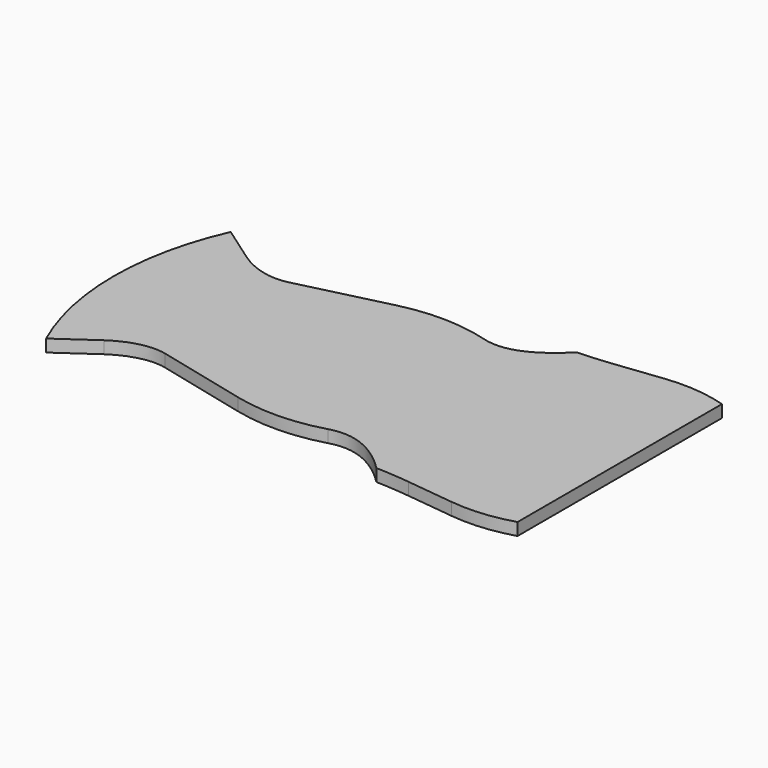
from build123d import *

# Parameters (mm, degrees)
F1_DEPTH = 20


with BuildPart() as f1:
    # F0 (on Top) → F1 (new body)
    with BuildSketch(Plane.XY):
        with BuildLine():
            ThreePointArc((40, 187), (10.111843, 95.615114), (0, 0))
            Line((0, 0), (100, 0))
            Line((100, 0), (100, 145))
            Line((100, 145), (40, 187))
        make_face()
        with BuildLine():
            Line((100, 0), (0, 0))
            ThreePointArc((0, 0), (10.111843, -95.615114), (40, -187))
            Line((40, -187), (100, -145))
            Line((100, -145), (100, 0))
        make_face()
        with BuildLine():
            Line((100, 145), (100, 0))
            Line((100, 0), (183, 0))
            Line((183, 0), (183, 125))
            add(Edge.make_bspline(
                [(100, 145), (123.31415, 128.680095), (155.358294, 118.230603), (183, 125)],
                knots=[0, 0, 0, 0, 85.375641, 85.375641, 85.375641, 85.375641], degree=3))
        make_face()
        with BuildLine():
            Line((183, 0), (100, 0))
            Line((100, 0), (100, -145))
            add(Edge.make_bspline(
                [(100, -145), (123.31415, -128.680095), (155.358294, -118.230603), (183, -125)],
                knots=[0, 0, 0, 0, 85.375641, 85.375641, 85.375641, 85.375641], degree=3))
            Line((183, -125), (183, 0))
        make_face()
        Polygon((183, 125), (183, 0), (330, 0), (330, 161), align=None)
        Polygon((330, 0), (183, 0), (183, -125), (330, -161), align=None)
        with BuildLine():
            Line((330, 161), (330, 0))
            Line((330, 0), (474, 0))
            Line((474, 0), (474, 158))
            ThreePointArc((474, 158), (402.196918, 168.952057), (330, 161))
        make_face()
        with BuildLine():
            Line((474, 0), (330, 0))
            Line((330, 0), (330, -161))
            ThreePointArc((330, -161), (402.196918, -168.952057), (474, -158))
            Line((474, -158), (474, 0))
        make_face()
        with BuildLine():
            Line((474, 158), (474, 0))
            Line((474, 0), (587.999996, 0))
            Line((587.999996, 0), (587.999996, 203))
            add(Edge.make_bspline(
                [(474, 158), (498.337581, 150.951675), (536.193063, 151.193067), (587.999996, 203)],
                knots=[0, 0, 0, 0, 122.560186, 122.560186, 122.560186, 122.560186], degree=3))
        make_face()
        with BuildLine():
            Line((587.999996, 0), (474, 0))
            Line((474, 0), (474, -158))
            add(Edge.make_bspline(
                [(474, -158), (498.337581, -150.951675), (536.193063, -151.193067), (587.999996, -203)],
                knots=[0, 0, 0, 0, 122.560186, 122.560186, 122.560186, 122.560186], degree=3))
            Line((587.999996, -203), (587.999996, 0))
        make_face()
        with BuildLine():
            Line((587.999996, 203), (587.999996, 0))
            Line((587.999996, 0), (642.999996, 0))
            Line((642.999996, 0), (642.999996, 207))
            ThreePointArc((642.999996, 207), (615.543759, 204.398263), (587.999996, 203))
        make_face()
        with BuildLine():
            Line((642.999996, 0), (587.999996, 0))
            Line((587.999996, 0), (587.999996, -203))
            ThreePointArc((587.999996, -203), (615.543759, -204.398263), (642.999996, -207))
            Line((642.999996, -207), (642.999996, 0))
        make_face()
        Polygon((642.999996, 207), (642.999996, 0), (720.000004, 0), (720.000004, 216), align=None)
        Polygon((720.000004, 0), (642.999996, 0), (642.999996, -207), (720.000004, -216), align=None)
        with BuildLine():
            Line((720.000004, 216), (720.000004, 0))
            Line((720.000004, 0), (820, 0))
            Line((820, 0), (820, 207))
            ThreePointArc((820, 207), (770.465406, 216.671153), (720.000004, 216))
        make_face()
        with BuildLine():
            Line((820, 0), (720.000004, 0))
            Line((720.000004, 0), (720.000004, -216))
            ThreePointArc((720.000004, -216), (770.465406, -216.671153), (820, -207))
            Line((820, -207), (820, 0))
        make_face()
    extrude(amount=F1_DEPTH)


solid = f1.part
